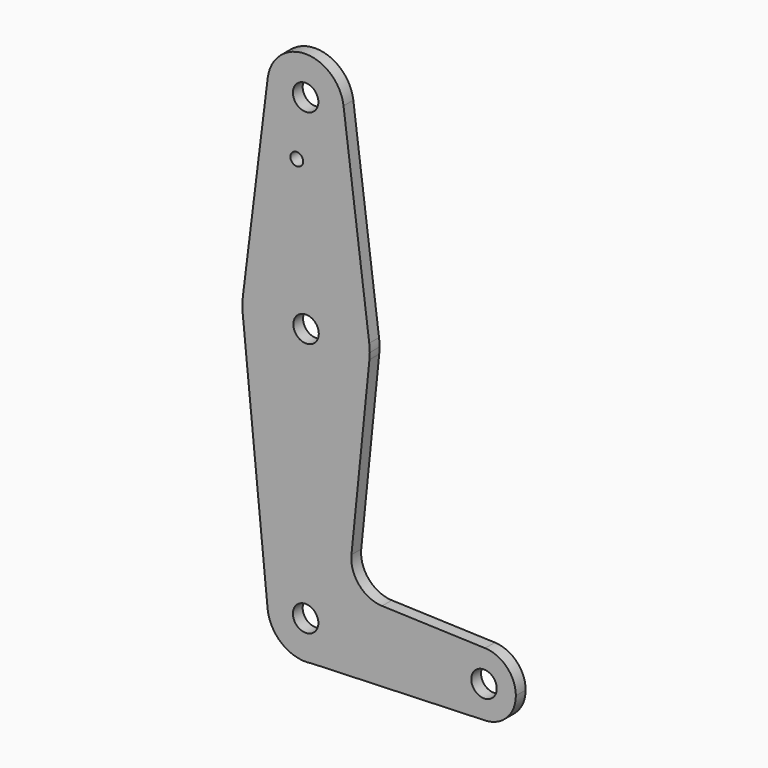
from build123d import *

# Parameters (mm, degrees)
F0_R     = 3.175
F0_R_2   = 1.5875
F1_DEPTH = 3.048


with BuildPart() as f1:
    # F0 (on Front) → F1 (new body)
    with BuildSketch(Plane.XZ):
        with BuildLine():
            ThreePointArc((-9.452745, 48.793942), (-0.586613, 38.116023), (9.525, 47.622942))
            ThreePointArc((9.525, 47.622942), (9.505675, 48.229382), (9.447778, 48.833362))
            ThreePointArc((9.447778, 48.833362), (-0.019866, 57.147922), (-9.452745, 48.793942))
        make_face()
        with Locations((0, 47.622942)):
            Circle(F0_R, mode=Mode.SUBTRACT)
        with BuildLine():
            ThreePointArc((9.447778, 48.833362), (9.505675, 48.229382), (9.525, 47.622942))
            ThreePointArc((9.525, 47.622942), (-0.586613, 38.116023), (-9.452745, 48.793942))
            Line((-9.452745, 48.793942), (-15.648632, -1.221566))
            ThreePointArc((-15.648632, -1.221566), (0.072833, 12.701734), (15.85224, -1.155866))
            Line((15.85224, -1.155866), (9.447778, 48.833362))
        make_face()
        with Locations((-2.208521, 33.351968)):
            Circle(F0_R_2, mode=Mode.SUBTRACT)
        with BuildLine():
            ThreePointArc((15.980943, -3.173232), (15.948734, -2.162498), (15.85224, -1.155866))
            ThreePointArc((15.85224, -1.155866), (0.072833, 12.701734), (-15.648632, -1.221566))
            ThreePointArc((-15.648632, -1.221566), (-15.767841, -2.976764), (-15.69211, -4.734375))
            ThreePointArc((-15.69211, -4.734375), (0.086612, -19.04822), (15.900146, -4.772843))
            ThreePointArc((15.900146, -4.772843), (15.960731, -3.974057), (15.980943, -3.173232))
        make_face()
        with Locations((0.105943, -3.173232)):
            Circle(F0_R, mode=Mode.SUBTRACT)
        with BuildLine():
            ThreePointArc((15.900146, -4.772843), (0.086612, -19.04822), (-15.69211, -4.734375))
            Line((-15.69211, -4.734375), (-9.478831, -67.609918))
            ThreePointArc((-9.478831, -67.609918), (-0.468911, -57.159781), (9.525, -66.673232))
            ThreePointArc((9.525, -66.673232), (7.257674, -72.841845), (1.535123, -76.073712))
            Line((1.535123, -76.073712), (44.732405, -74.535839))
            ThreePointArc((44.732405, -74.535839), (36.5125, -66.603364), (44.732405, -58.670889))
            Line((44.732405, -58.670889), (19.045217, -57.756396))
            ThreePointArc((19.045217, -57.756396), (13.337113, -55.03683), (11.419705, -49.011713))
            Line((11.419705, -49.011713), (15.900146, -4.772843))
        make_face()
        with BuildLine():
            ThreePointArc((9.525, -66.673232), (-0.468911, -57.159781), (-9.478831, -67.609918))
            ThreePointArc((-9.478831, -67.609918), (-5.803842, -74.225784), (1.535123, -76.073712))
            ThreePointArc((1.535123, -76.073712), (7.257674, -72.841845), (9.525, -66.673232))
        make_face()
        with Locations((0, -66.673232)):
            Circle(F0_R, mode=Mode.SUBTRACT)
        with BuildLine():
            ThreePointArc((44.732405, -58.670889), (36.5125, -66.603364), (44.732405, -74.535839))
            ThreePointArc((44.732405, -74.535839), (50.161633, -72.115275), (52.3875, -66.603364))
            ThreePointArc((52.3875, -66.603364), (50.161633, -61.091454), (44.732405, -58.670889))
        make_face()
        with Locations((44.45, -66.603364)):
            Circle(F0_R, mode=Mode.SUBTRACT)
    extrude(amount=F1_DEPTH)


solid = f1.part
